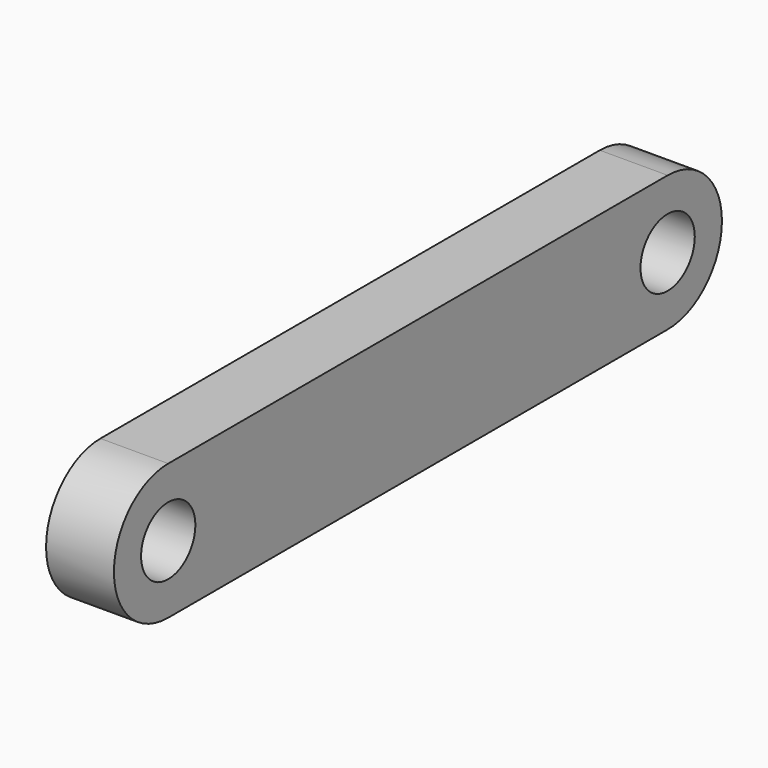
from build123d import *

# Parameters (mm, degrees)
F0_R     = 3.175
F1_DEPTH = 6.35


with BuildPart() as f1:
    # F0 (on Right) → F1 (new body)
    with BuildSketch(Plane.YZ):
        with BuildLine():
            Line((30.07088, 5.429997), (-28.34912, 5.429997))
            ThreePointArc((-28.34912, 5.429997), (-34.69912, -0.920003), (-28.34912, -7.270003))
            Line((-28.34912, -7.270003), (30.07088, -7.270003))
            ThreePointArc((30.07088, -7.270003), (36.42088, -0.920003), (30.07088, 5.429997))
        make_face()
        with Locations((-28.34912, -0.920003)):
            Circle(F0_R, mode=Mode.SUBTRACT)
        with Locations((30.07088, -0.920003)):
            Circle(F0_R, mode=Mode.SUBTRACT)
    extrude(amount=F1_DEPTH)


solid = f1.part
